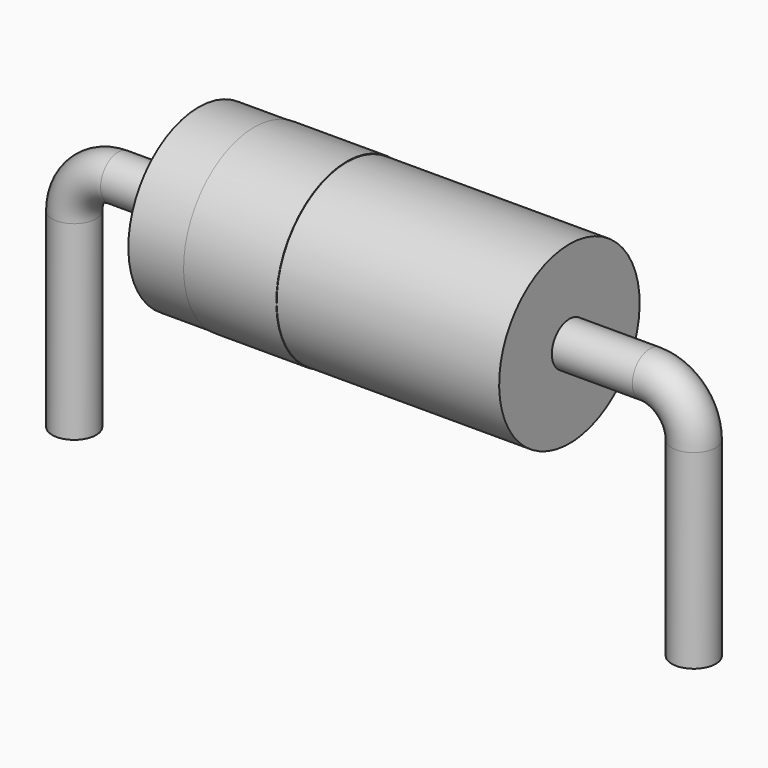
from build123d import *

# Parameters (mm, degrees)
SKETCH002_W = 7.6
SKETCH002_H = 1.8
SKETCH003_W = 1.9
SKETCH003_H = 0.02
SKETCH_R    = 0.45


with BuildPart() as revolution:
    # Sketch002 → Revolution (revolve)
    with BuildSketch(Plane.XZ):
        with Locations((6.35, 3.2)):
            Rectangle(SKETCH002_W, SKETCH002_H)
    revolve(axis=Axis((2.55, 0, 2.3), (1, 0, 0)))


with BuildPart() as revolution001:
    # Sketch003 → Revolution001 (revolve)
    with BuildSketch(Plane.XZ):
        with Locations((4.64, 4.1)):
            Rectangle(SKETCH003_W, SKETCH003_H)
    revolve(axis=Axis((0, 0, 2.3), (1, 0, 0)))


with BuildPart() as sweep_body:
    # Sweep: sweep along a path in Sketch001
    with BuildLine(Plane.XZ) as sweep_path:
        Line((0, -2.5), (0, 1.4))
        ThreePointArc((0, 1.4), (0.263604, 2.036396), (0.9, 2.3))
        Line((0.9, 2.3), (11.8, 2.3))
        ThreePointArc((11.8, 2.3), (12.436396, 2.036396), (12.7, 1.4))
        Line((12.7, 1.4), (12.7, -2.5))
    # Sketch → Sweep (sweep)
    with BuildSketch(Plane.XY.offset(-2)):
        Circle(SKETCH_R)
    sweep(path=sweep_path.line)


solid = Compound([revolution.part, revolution001.part, sweep_body.part])
